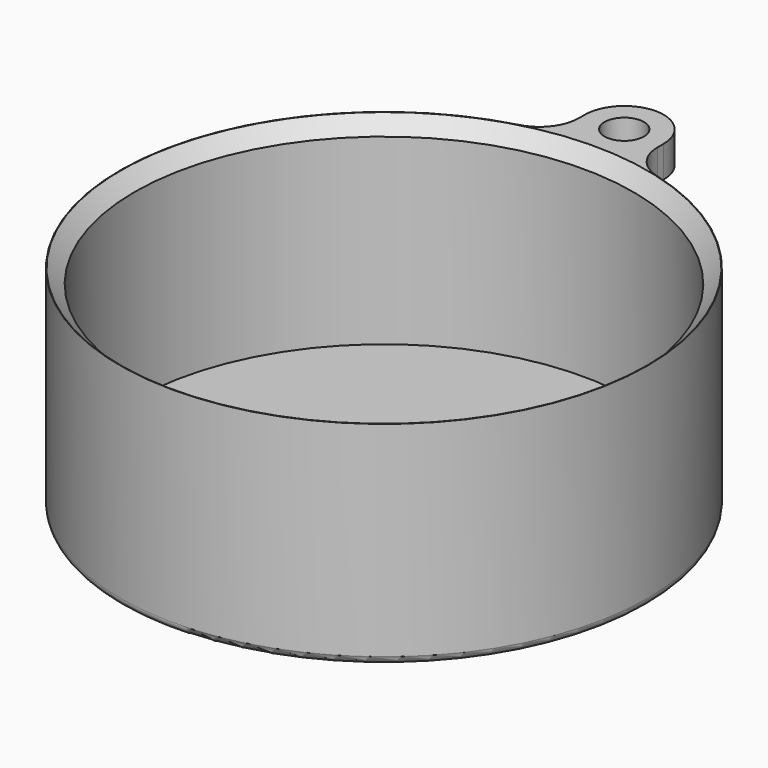
from build123d import *

# Parameters (mm, degrees)
SKETCH_R     = 33.5
PAD_DEPTH    = 27
SKETCH001_R  = 31.65
POCKET_DEPTH = 25
FILLET_R     = 1
CHAMFER_SIZE = 1.8
SKETCH002_R  = 2.5
PAD001_DEPTH = 4
FILLET001_R  = 5
FILLET002_R  = 5


with BuildPart() as part:
    # Sketch → Pad (new body)
    with BuildSketch(Plane.XY):
        Circle(SKETCH_R)
    extrude(amount=PAD_DEPTH)

    # Sketch001 (on Face3 of Pad) → Pocket (cut)
    with BuildSketch(Plane.XY.offset(27)):
        Circle(SKETCH001_R)
    extrude(amount=-POCKET_DEPTH, mode=Mode.SUBTRACT)

    # Fillet
    fillet_edges = [part.edges().sort_by_distance(p)[0] for p in [
        (-33.5, 0, 0),
    ]]
    fillet(fillet_edges, radius=FILLET_R)

    # Chamfer
    chamfer_edges = [part.edges().sort_by_distance(p)[0] for p in [
        (-31.65, 0, 27),
    ]]
    chamfer(chamfer_edges, length=CHAMFER_SIZE)

    # Sketch002 (on Face1 of Chamfer) → Pad001 (join)
    with BuildSketch(Plane.XY.offset(27)):
        with BuildLine():
            Line((-5, 33.124764), (-5, 38.124764))
            ThreePointArc((5, 38.124764), (0, 43.124764), (-5, 38.124764))
            Line((5, 33.124764), (5, 38.124764))
            ThreePointArc((5, 33.124764), (0, 33.5), (-5, 33.124764))
        make_face()
        with Locations((0, 38.124764)):
            Circle(SKETCH002_R, mode=Mode.SUBTRACT)
    extrude(amount=-PAD001_DEPTH)

    # Fillet001
    fillet001_edges = [part.edges().sort_by_distance(p)[0] for p in [
        (-5, 33.124764, 25),
    ]]
    fillet(fillet001_edges, radius=FILLET001_R)

    # Fillet002
    fillet002_edges = [part.edges().sort_by_distance(p)[0] for p in [
        (5, 33.124764, 25),
    ]]
    fillet(fillet002_edges, radius=FILLET002_R)


solid = part.part
